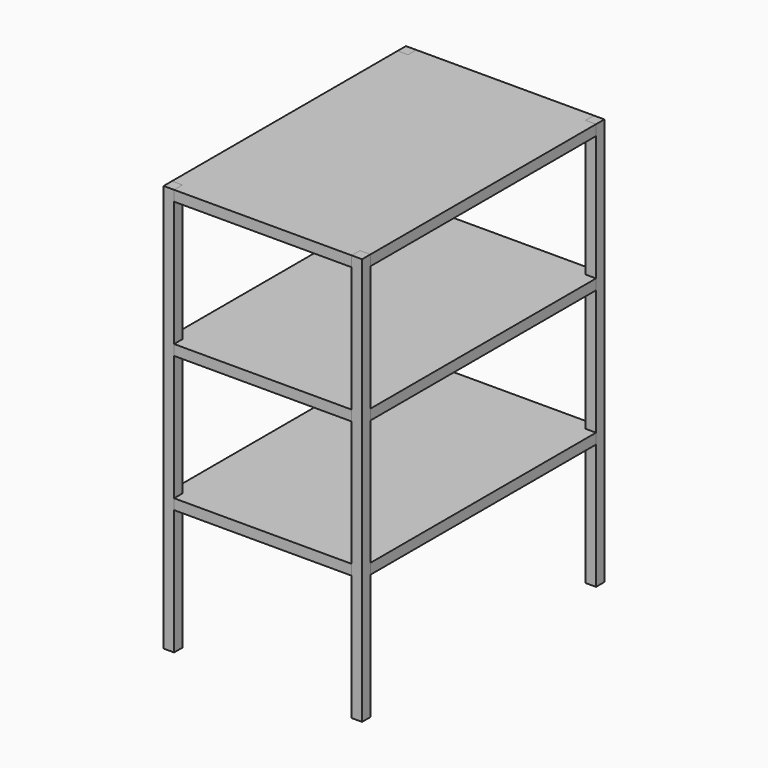
from build123d import *

# Parameters (mm, degrees)
F0_W      = 25.4
F0_H      = 25.4
F1_DEPTH  = 990.6
F4_DEPTH  = 25.4
F7_DEPTH  = 25.4
F10_DEPTH = 25.4


with BuildPart() as f1:
    # F0 (on Top) → F1 (new body)
    with BuildSketch(Plane.XY):
        with Locations((-228.6, 355.6)):
            Rectangle(F0_W, F0_H)
    extrude(amount=F1_DEPTH)


with BuildPart() as f1b:
    # F0 (on Top) → F1, piece 2 (new body)
    with BuildSketch(Plane.XY):
        with Locations((228.6, 355.6)):
            Rectangle(F0_W, F0_H)
    extrude(amount=F1_DEPTH)


with BuildPart() as f1c:
    # F0 (on Top) → F1, piece 3 (new body)
    with BuildSketch(Plane.XY):
        with Locations((-228.6, -355.6)):
            Rectangle(F0_W, F0_H)
    extrude(amount=F1_DEPTH)


with BuildPart() as f1d:
    # F0 (on Top) → F1, piece 4 (new body)
    with BuildSketch(Plane.XY):
        with Locations((228.6, -355.6)):
            Rectangle(F0_W, F0_H)
    extrude(amount=F1_DEPTH)


with BuildPart() as f4:
    # F3 (on offset) → F4 (new body)
    with BuildSketch(Plane.XY.offset(304.8)):
        Polygon((215.9, -342.9), (241.3, -342.9), (241.3, 342.9), (215.9, 342.9), (215.9, 368.3), (-215.9, 368.3), (-215.9, 342.9), (-241.3, 342.9), (-241.3, -342.9), (-215.9, -342.9), (-215.9, -368.3), (215.9, -368.3), align=None)
    extrude(amount=F4_DEPTH)


with BuildPart() as f7:
    # F6 (on offset) → F7 (new body)
    with BuildSketch(Plane.XY.offset(635)):
        Polygon((-215.9, -368.3), (215.9, -368.3), (215.9, -342.9), (241.3, -342.9), (241.3, 342.9), (215.9, 342.9), (215.9, 368.3), (-215.9, 368.3), (-215.9, 342.9), (-241.3, 342.9), (-241.3, -342.9), (-215.9, -342.9), align=None)
    extrude(amount=F7_DEPTH)


with BuildPart() as f10:
    # F9 (on offset) → F10 (new body)
    with BuildSketch(Plane.XY.offset(965.2)):
        Polygon((-241.3, -342.9), (-215.9, -342.9), (-215.9, -368.3), (215.9, -368.3), (215.9, -342.9), (241.3, -342.9), (241.3, 342.9), (215.9, 342.9), (215.9, 368.3), (-215.9, 368.3), (-215.9, 342.9), (-241.3, 342.9), align=None)
    extrude(amount=F10_DEPTH)


solid = Compound([f1.part, f1b.part, f1c.part, f1d.part, f4.part, f7.part, f10.part])
